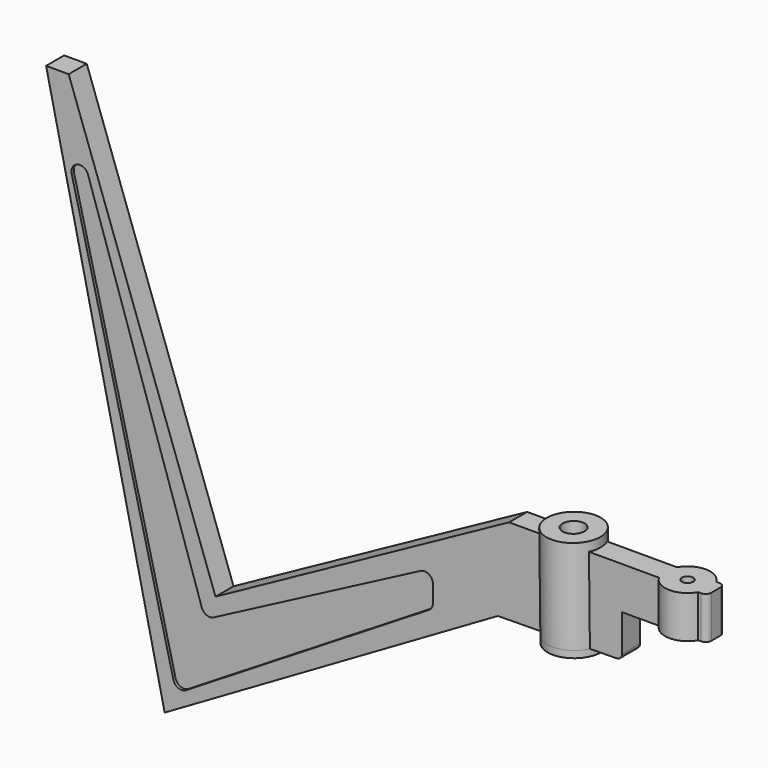
from build123d import *

# Parameters (mm, degrees)
PAD_DEPTH         = 4
POCKET_DEPTH      = 0.5
SKETCH002_R       = 4.75
PAD001_DEPTH      = 1.2
PAD001_DEPTH_BACK = 16.7
SKETCH003_R       = 4
PAD002_DEPTH      = 7.5
SKETCH004_R       = 1.95
POCKET001_DEPTH   = 61.83559
SKETCH005_R       = 1
POCKET002_DEPTH   = 52.001
FILLET_R          = 1
FILLET001_R       = 1
FILLET002_R       = 1


with BuildPart() as part:
    # Sketch → Pad (new body)
    with BuildSketch(Plane(origin=(-43, 85, 6), x_dir=(-1, 0, 0), z_dir=(0, -1, 0))):
        Polygon((-25, -15.5), (-25, -8), (-10, -8), (-10, -0.5), (12, -0.25447), (71, 34), (92, -60), (88, -60), (62, 13), (10, -15.5), align=None)
    extrude(amount=PAD_DEPTH)

    # Sketch001 → Pocket (cut)
    with BuildSketch(Plane(origin=(-43, 81, 6), x_dir=(-1, 0, 0), z_dir=(0, -1, 0))):
        with BuildLine():
            Line((23.5, -1.5), (23.5, 1.5))
            ThreePointArc((24.213026, 2.776977), (23.690332, 2.231279), (23.5, 1.5))
            Line((24.213026, 2.776977), (67.213026, 29.276977))
            ThreePointArc((69.45638, 28.359107), (68.56802, 29.388291), (67.213026, 29.276977))
            Line((69.45638, 28.359107), (87.45638, -44.640893))
            ThreePointArc((84.575842, -45.470927), (86.41533, -46.441354), (87.45638, -44.640893))
            Line((84.575842, -45.470927), (64.424158, 15.470927))
            ThreePointArc((64.424158, 15.470927), (63.562865, 16.390389), (62.304506, 16.329017))
            Line((62.304506, 16.329017), (25.695494, -2.829017))
            ThreePointArc((23.5, -1.5), (24.223225, -2.783207), (25.695494, -2.829017))
        make_face()
    extrude(amount=-POCKET_DEPTH, mode=Mode.SUBTRACT)

    # Sketch002 → Pad001 (new body, two sides)
    with BuildSketch(Plane(origin=(-43.004334, 85, 6.388347), x_dir=(0.999938, 0, 0.01116), z_dir=(0.01116, 0, -0.999938))) as pad001_sk:
        with Locations((0, 2)):
            Circle(SKETCH002_R)
    extrude(amount=PAD001_DEPTH)
    extrude(pad001_sk.sketch, amount=-PAD001_DEPTH_BACK)

    # Sketch003 → Pad002 (new body)
    with BuildSketch(Plane(origin=(-43, 85, 14), x_dir=(1, 0, 0), z_dir=(0, 0, -1))):
        with Locations((20, 2)):
            Circle(SKETCH003_R)
    extrude(amount=-PAD002_DEPTH)

    # Sketch004 → Pocket001 (cut, through all)
    with BuildSketch(Plane(origin=(-42.990942, 85, 5.188422), x_dir=(0.999938, 0, 0.01116), z_dir=(0.01116, 0, -0.999938))):
        with Locations((0, 2)):
            Circle(SKETCH004_R)
    extrude(amount=-POCKET001_DEPTH, mode=Mode.SUBTRACT)

    # Sketch005 → Pocket002 (cut, through all)
    with BuildSketch(Plane(origin=(-43, 85, 14), x_dir=(1, 0, 0), z_dir=(0, 0, -1))):
        with Locations((20, 2)):
            Circle(SKETCH005_R)
    extrude(amount=-POCKET002_DEPTH, mode=Mode.SUBTRACT)

    # Fillet
    fillet_edges = [part.edges().sort_by_distance(p)[0] for p in [
        (-18, 85, 17.75),
    ]]
    fillet(fillet_edges, radius=FILLET_R)

    # Fillet001
    fillet001_edges = [part.edges().sort_by_distance(p)[0] for p in [
        (-18, 81, 17.75),
    ]]
    fillet(fillet001_edges, radius=FILLET001_R)

    # Fillet002
    fillet002_edges = [part.edges().sort_by_distance(p)[0] for p in [
        (-33, 83, 6.5),
    ]]
    fillet(fillet002_edges, radius=FILLET002_R)


solid = part.part
